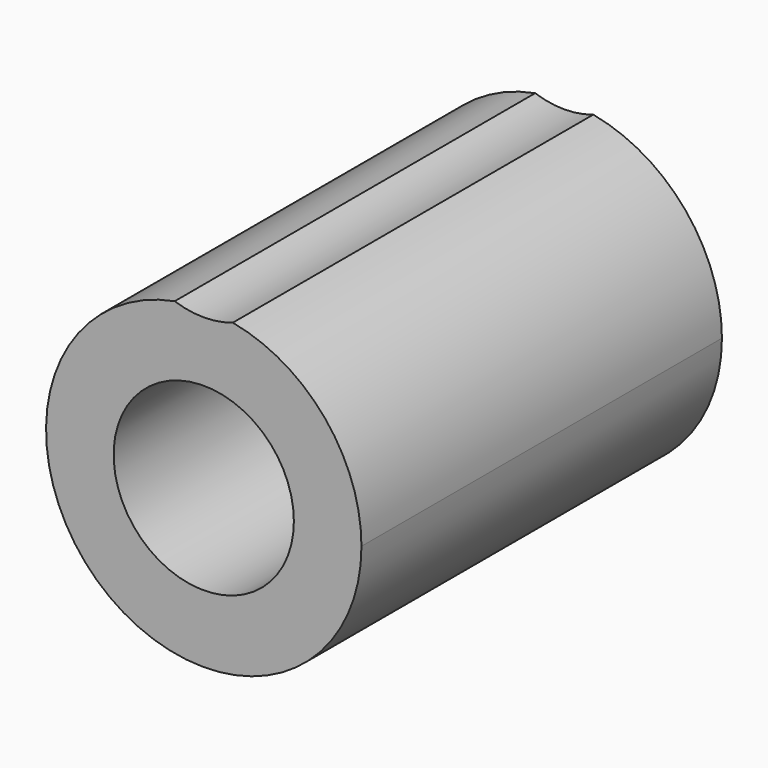
from build123d import *

# Parameters (mm, degrees)
F0_R     = 6
F1_DEPTH = 30


with BuildPart() as f1:
    # F0 (on Front) → F1 (new body)
    with BuildSketch(Plane.XZ):
        with BuildLine():
            ThreePointArc((-1.9342052379, 10.3203125), (-6.7059989935, -8.0795778045), (10.5, 0))
            ThreePointArc((10.5, 0), (8.0795778045, 6.7059989935), (1.9342052379, 10.3203125))
            ThreePointArc((1.9342052379, 10.3203125), (0, 10), (-1.9342052379, 10.3203125))
        make_face()
        Circle(F0_R, mode=Mode.SUBTRACT)
    extrude(amount=F1_DEPTH)


solid = f1.part
